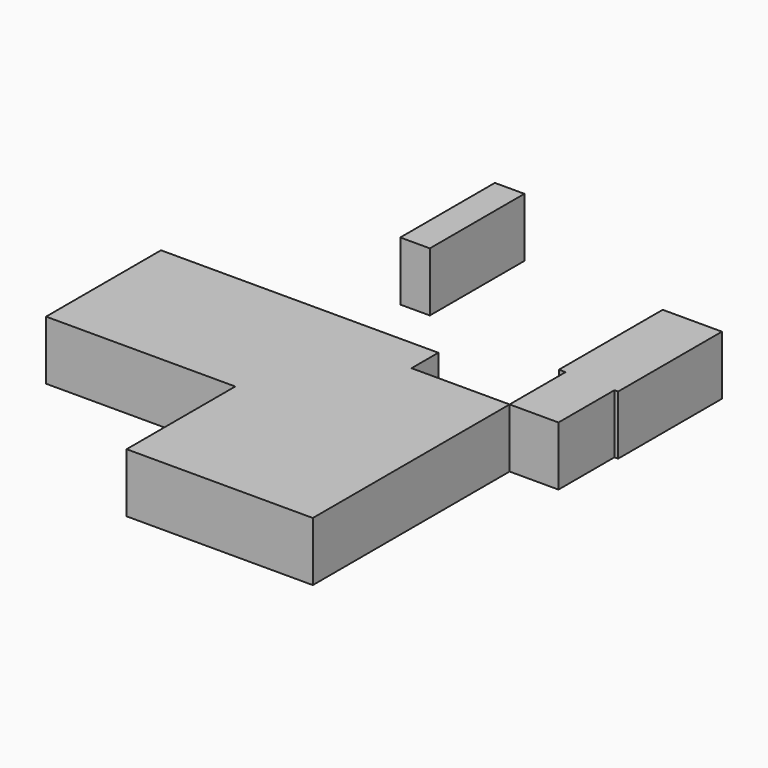
from build123d import *

# Parameters (mm, degrees)
F0_W     = 37.8937845179
F0_H     = 47.3373946244
F1_DEPTH = 25.4
F0_W_2   = 21.0103082003
F0_H_2   = 30.0672181955
F0_H_3   = 0.2619628472
F0_W_3   = 12.7
F0_H_4   = 50.8


with BuildPart() as f1:
    # F0 (on Top) → F1 (new body)
    with BuildSketch(Plane.XY):
        Polygon((3.5545719384, -14.3982255389), (3.5545719384, 0), (-115.641171745, 0), (-115.641171745, -61.7356201633), (-34.3392125795, -61.7356201633), (-34.3392125795, -14.3982255389), align=None)
        Polygon((45.7032573575, -14.3982255389), (3.5545719384, -14.3982255389), (3.5545719384, -61.7356201633), (-34.3392125795, -61.7356201633), (-34.3392125795, -120.1114062909), (45.7032573575, -120.1114062909), align=None)
        with Locations((-15.3923203205, -38.0669228511)):
            Rectangle(F0_W, F0_H)
    extrude(amount=F1_DEPTH)


with BuildPart() as f1b:
    # F0 (on Top) → F1, piece 2 (new body)
    with BuildSketch(Plane.XY):
        with Locations((56.2084114576, 0.6353835588)):
            Rectangle(F0_W_2, F0_H_2)
        with Locations((56.2084114576, 15.7999740802)):
            Rectangle(F0_W_2, F0_H_3)
        Polygon((42.8484153111, 15.6689926566), (45.7032573575, 15.6689926566), (45.7032573575, 15.9309555038), (66.7135655578, 15.9309555038), (66.7135655578, 15.6689926566), (68.3027617726, 15.6689926566), (68.3027617726, 71.4222609481), (42.8484153111, 71.4222609481), align=None)
    extrude(amount=F1_DEPTH)


with BuildPart() as f1c:
    # F0 (on Top) → F1, piece 3 (new body)
    with BuildSketch(Plane.XY):
        with Locations((-52.4015846889, 82.8471958824)):
            Rectangle(F0_W_3, F0_H_4)
    extrude(amount=F1_DEPTH)


solid = Compound([f1.part, f1b.part, f1c.part])
